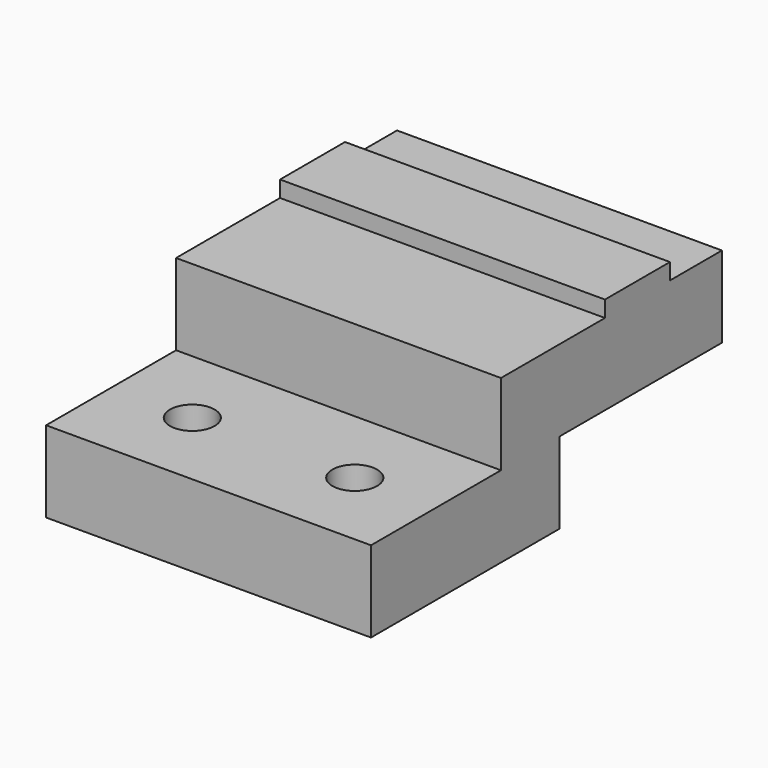
from build123d import *

# Parameters (mm, degrees)
PAD020_DEPTH    = 20
SKETCH071_R     = 4.2
HOLE011_DEPTH   = 25
SKETCH072_R     = 2.75
HOLE012_DEPTH   = 25
SKETCH073_W     = 40
SKETCH073_H     = 20
POCKET025_DEPTH = 10
SKETCH074_W     = 25
SKETCH074_H     = 10
POCKET026_DEPTH = 190.001
SKETCH075_W     = 40
SKETCH075_H     = 10
PAD021_DEPTH    = 2


with BuildPart() as part:
    # Sketch070 → Pad020 (new body)
    with BuildSketch(Plane.XY.offset(480)):
        Polygon((-190, 160), (-190, 140), (-150, 140), (-150, 160), (-150, 194), (-190, 194), align=None)
    extrude(amount=PAD020_DEPTH)

    # Sketch071 (on Face8 of Pad020) → Hole011 (cut)
    with BuildSketch(Plane.XY.offset(500)):
        with Locations((-170, 181)):
            Circle(SKETCH071_R)
    extrude(amount=-HOLE011_DEPTH, mode=Mode.SUBTRACT)

    # Sketch072 (on Face5 of Hole011) → Hole012 (cut)
    with BuildSketch(Plane.XY.offset(500)):
        with Locations((-180, 150)):
            Circle(SKETCH072_R)
        with Locations((-160, 150)):
            Circle(SKETCH072_R)
    extrude(amount=-HOLE012_DEPTH, mode=Mode.SUBTRACT)

    # Sketch073 (on Face5 of Hole012) → Pocket025 (cut)
    with BuildSketch(Plane.XY.offset(500)):
        with Locations((-170, 150)):
            Rectangle(SKETCH073_W, SKETCH073_H)
    extrude(amount=-POCKET025_DEPTH, mode=Mode.SUBTRACT)

    # Sketch074 → Pocket026 (cut, through all)
    with BuildSketch(Plane.YZ):
        with Locations((181.5, 485)):
            Rectangle(SKETCH074_W, SKETCH074_H)
    extrude(amount=-POCKET026_DEPTH, mode=Mode.SUBTRACT)

    # Sketch075 (on Face13 of Pocket026) → Pad021 (join)
    with BuildSketch(Plane.XY.offset(500)):
        with Locations((-170, 181)):
            Rectangle(SKETCH075_W, SKETCH075_H)
    extrude(amount=PAD021_DEPTH)


solid = part.part
